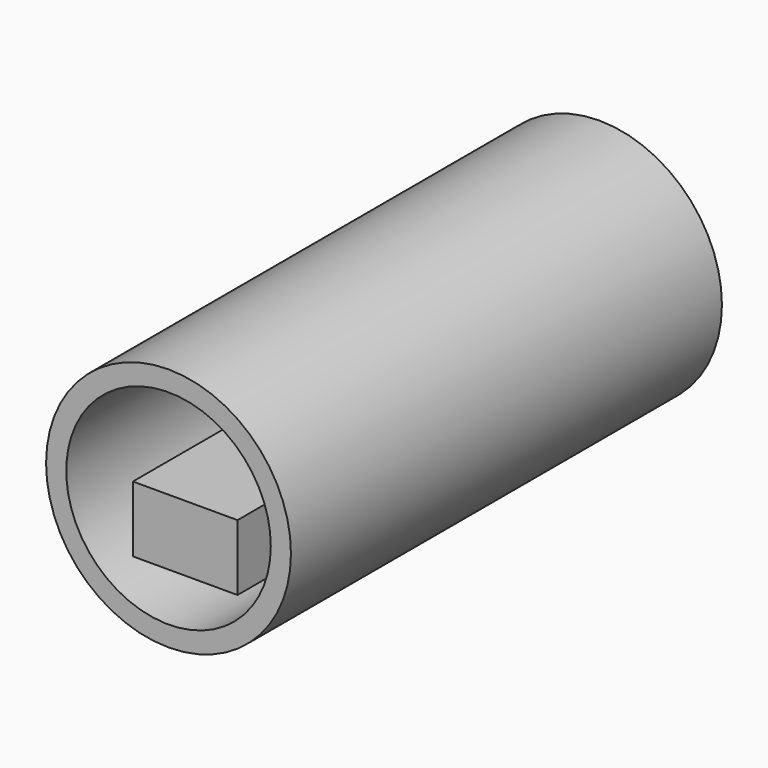
from build123d import *

# Parameters (mm, degrees)
F0_R          = 190.5
F0_R_2        = 159.131759
F1_DEPTH      = 711.2
F1_DEPTH_BACK = 127
F2_W          = 162.755389
F2_H          = 102.576924
F3_DEPTH      = 711.2


with BuildPart() as f1:
    # F0 (on Front) → F1 (new body, two sides)
    with BuildSketch(Plane.XZ) as f1_sk:
        Circle(F0_R)
        Circle(F0_R_2, mode=Mode.SUBTRACT)
    extrude(amount=F1_DEPTH)
    extrude(f1_sk.sketch, amount=-F1_DEPTH_BACK)


with BuildPart() as f3:
    # F2 (on Front) → F3 (new body)
    with BuildSketch(Plane.XZ):
        with Locations((25.986156, -32.482692)):
            Rectangle(F2_W, F2_H)
    extrude(amount=F3_DEPTH)


solid = Compound([f1.part, f3.part])
